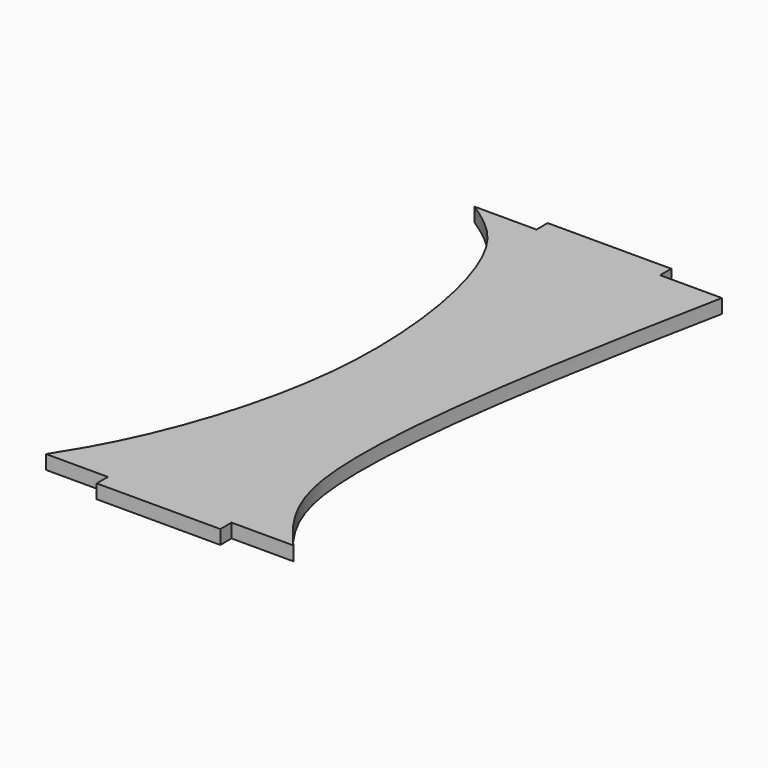
from build123d import *

# Parameters (mm, degrees)
F1_DEPTH = 4.318


with BuildPart() as f1:
    # F0 (on Top) → F1 (new body)
    with BuildSketch(Plane.XY):
        with BuildLine():
            add(Edge.make_bspline(
                [(0, 0), (3.7239435602, 5.9826129798), (13.5279444344, 21.7329974678), (33.6444944528, 81.4147827759), (21.1752610202, 150.8152430484), (5.6709057406, 161.2744268407), (0, 165.1)],
                knots=[0, 0, 0, 0, 0.189224589, 0.4981702881, 0.8164497045, 1, 1, 1, 1], degree=3))
            Line((0, 0), (19.05, 0))
            Line((19.05, 0), (19.05, -4.318))
            Line((19.05, -4.318), (57.15, -4.318))
            Line((57.15, -4.318), (57.15, 0))
            Line((57.15, 0), (76.2, 0))
            add(Edge.make_bspline(
                [(76.2, 165.1), (73.7900221631, 153.0298067545), (67.8618146993, 123.3388242929), (52.4049122742, 27.9697730912), (69.7279947616, 7.6074742842), (76.2, 0)],
                knots=[0, 0, 0, 0, 0.3002482778, 0.7385686517, 1, 1, 1, 1], degree=3))
            Line((76.2, 165.1), (57.15, 165.1))
            Line((57.15, 165.1), (57.15, 169.418))
            Line((57.15, 169.418), (19.05, 169.418))
            Line((19.05, 169.418), (19.05, 165.1))
            Line((19.05, 165.1), (0, 165.1))
        make_face()
    extrude(amount=F1_DEPTH)


solid = f1.part
